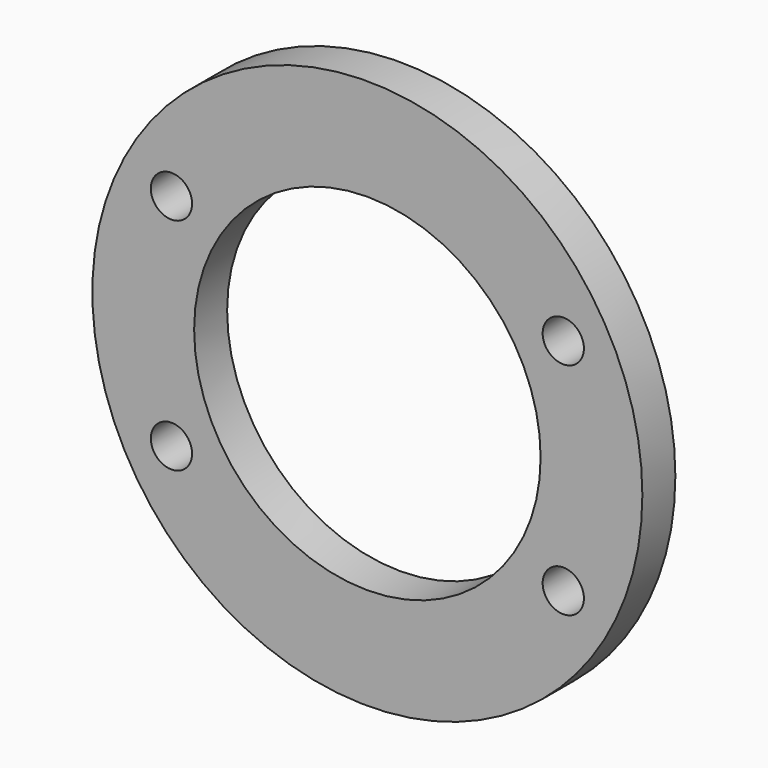
from build123d import *

# Parameters (mm, degrees)
F0_R     = 63.5
F0_R_2   = 4.7625
F0_R_3   = 40.005
F1_DEPTH = 9.525


with BuildPart() as f1:
    # F0 (on Front) → F1 (new body)
    with BuildSketch(Plane.XZ):
        Circle(F0_R)
        with Locations((-45.2374, -25.4)):
            Circle(F0_R_2, mode=Mode.SUBTRACT)
        with Locations((45.2374, -25.4)):
            Circle(F0_R_2, mode=Mode.SUBTRACT)
        with Locations((-45.2374, 25.4)):
            Circle(F0_R_2, mode=Mode.SUBTRACT)
        Circle(F0_R_3, mode=Mode.SUBTRACT)
        with Locations((45.2374, 25.4)):
            Circle(F0_R_2, mode=Mode.SUBTRACT)
    extrude(amount=-F1_DEPTH)


solid = f1.part
